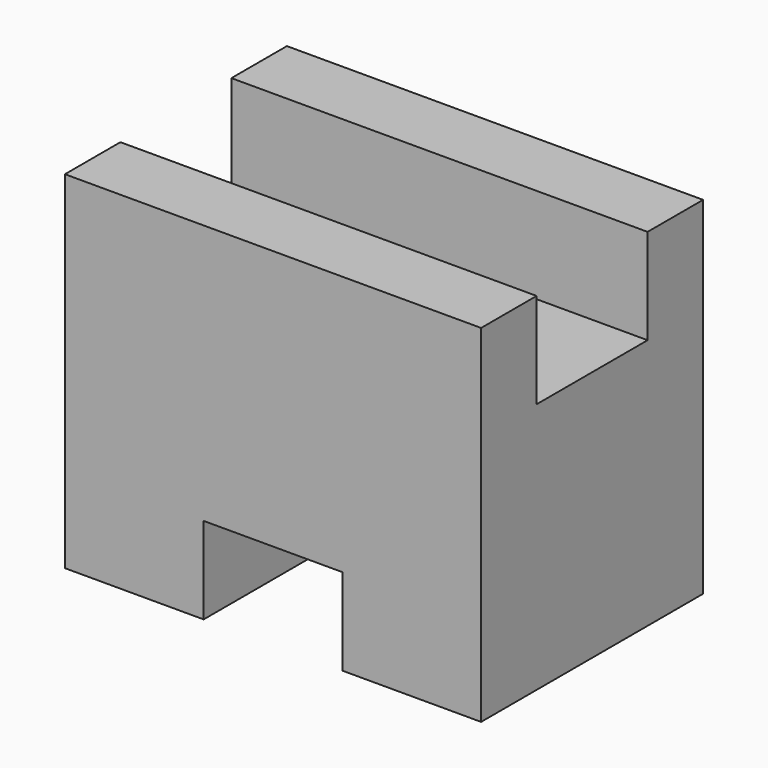
from build123d import *

# Parameters (mm, degrees)
F0_W     = 25.4
F0_H     = 31.75
F1_DEPTH = 38.1
F2_W     = 12.7
F2_H     = 8.732048
F3_DEPTH = 38.101
F4_W     = 12.7
F4_H     = 7.940691
F5_DEPTH = 25.401


with BuildPart() as f1:
    # F0 (on Right) → F1 (new body)
    with BuildSketch(Plane.YZ):
        with Locations((-12.7, 15.875)):
            Rectangle(F0_W, F0_H)
    extrude(amount=F1_DEPTH)

    # F2 (on face) → F3 (cut, through all)
    with BuildSketch(Plane.YZ.offset(38.1)):
        with Locations((-12.7, 27.383976)):
            Rectangle(F2_W, F2_H)
    extrude(amount=-F3_DEPTH, mode=Mode.SUBTRACT)

    # F4 (on face) → F5 (cut, through all)
    with BuildSketch(Plane.XZ.offset(25.4)):
        with Locations((19.05, 3.970345)):
            Rectangle(F4_W, F4_H)
    extrude(amount=-F5_DEPTH, mode=Mode.SUBTRACT)


solid = f1.part
